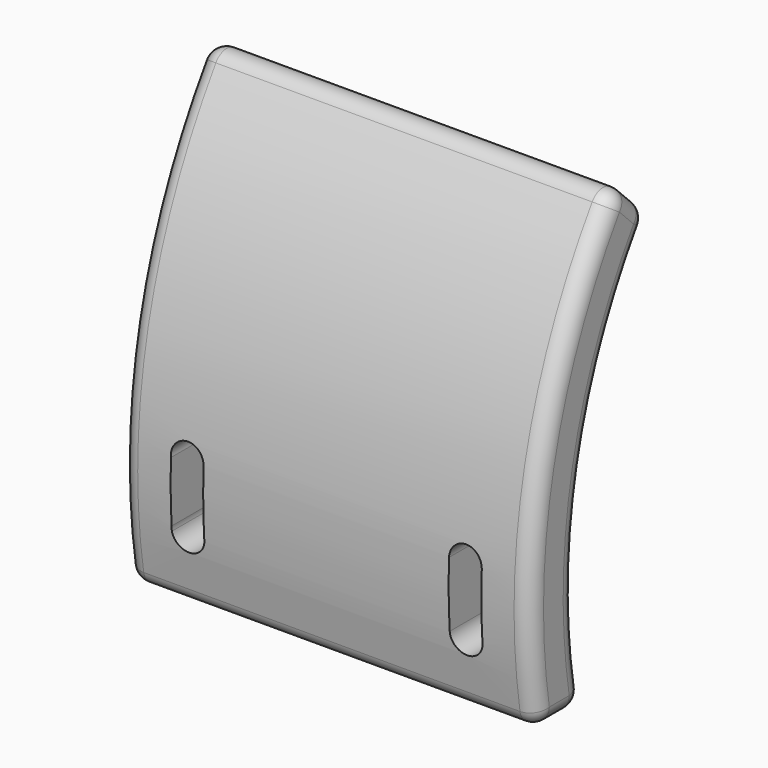
from build123d import *

# Parameters (mm, degrees)
F1_DEPTH = 50
F3_DEPTH = 50
F4_R     = 2


with BuildPart() as f1:
    # F0 (on Right) → F1 (new body)
    with BuildSketch(Plane.YZ):
        with BuildLine():
            Line((-27.136585, 14.208124), (-20, 14.208124))
            ThreePointArc((-20, 14.208124), (-20.068162, 39.737556), (-10, 63.197919))
            Line((-10, 63.197919), (-15.019473, 68.217392))
            ThreePointArc((-15.019473, 68.217392), (-26.643162, 42.461309), (-27.136585, 14.208124))
        make_face()
    extrude(amount=F1_DEPTH)

    # F2 (on Front) → F3 (cut)
    with BuildSketch(Plane.XZ):
        with BuildLine():
            Line((6.021636, 22.501509), (6.021636, 21.914739))
            ThreePointArc((6.021636, 21.914739), (8.147091, 20.21354), (10, 22.208124))
            ThreePointArc((10, 22.208124), (8.147091, 24.202708), (6.021636, 22.501509))
        make_face()
        with BuildLine():
            ThreePointArc((6.021636, 22.501509), (6, 22.208124), (6.021636, 21.914739))
            Line((6.021636, 21.914739), (6.021636, 22.501509))
        make_face()
        with BuildLine():
            ThreePointArc((6.021636, 22.501509), (8.147091, 24.202708), (10, 22.208124))
            Line((10, 22.208124), (10, 30.208124))
            ThreePointArc((10, 30.208124), (8.147091, 28.21354), (6.021636, 29.914739))
            Line((6.021636, 29.914739), (6.021636, 22.501509))
        make_face()
        with BuildLine():
            ThreePointArc((6.021636, 29.914739), (8.147091, 28.21354), (10, 30.208124))
            ThreePointArc((10, 30.208124), (7.852909, 32.202708), (6.021636, 29.914739))
        make_face()
        with BuildLine():
            ThreePointArc((40, 22.208124), (42, 20.208124), (44, 22.208124))
            ThreePointArc((44, 22.208124), (42, 24.208124), (40, 22.208124))
        make_face()
        with BuildLine():
            ThreePointArc((40, 22.208124), (42, 24.208124), (44, 22.208124))
            Line((44, 22.208124), (44, 30.208124))
            ThreePointArc((44, 30.208124), (42, 28.208124), (40, 30.208124))
            Line((40, 30.208124), (40, 22.208124))
        make_face()
        with BuildLine():
            ThreePointArc((40, 30.208124), (42, 28.208124), (44, 30.208124))
            ThreePointArc((44, 30.208124), (42, 32.208124), (40, 30.208124))
        make_face()
    extrude(amount=F3_DEPTH, mode=Mode.SUBTRACT)

    # F4
    f4_edges = [f1.edges().sort_by_distance(p)[0] for p in [
        (50, -23.568293, 14.208124),
        (50, -20.068162, 39.737556),
        (50, -12.509737, 65.707655),
        (50, -26.643162, 42.461309),
        (25, -10, 63.197919),
        (25, -15.019473, 68.217392),
        (0, -12.509737, 65.707655),
        (0, -23.568293, 14.208124),
        (0, -20.068162, 39.737556),
        (0, -26.643162, 42.461309),
        (25, -27.136585, 14.208124),
        (25, -20, 14.208124),
    ]]
    fillet(f4_edges, radius=F4_R)


solid = f1.part
